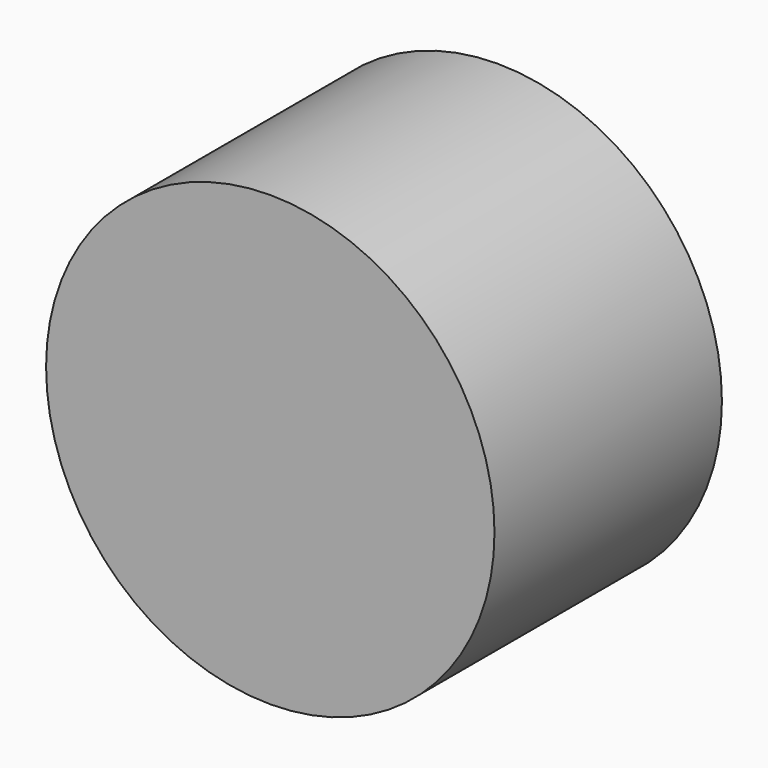
from build123d import *

# Parameters (mm, degrees)
F0_W     = 46.8510227791
F0_H     = 10.859509725
F1_DEPTH = 68.326
F2_DEPTH = 25.4
F4_R     = 635
F5_DEPTH = 805.18


with BuildPart() as f1:
    # F0 (on Front) → F1 (new body)
    with BuildSketch(Plane.XZ):
        with BuildLine():
            Line((0, 19.9349565315), (0, 0))
            Line((0, 0), (35.5261108433, 0))
            Line((35.5261108433, 0), (35.5261108433, 2.7486670447))
            ThreePointArc((35.5261108433, 2.7486670447), (31.9945535762, 7.7510571327), (35.5261108433, 12.7534472207))
            Line((35.5261108433, 12.7534472207), (35.5261108433, 13.7660977894))
            ThreePointArc((35.5261108433, 13.7660977894), (34.1369679811, 16.9197345446), (32.468561842, 19.9349565315))
            Line((32.468561842, 19.9349565315), (0, 19.9349565315))
        make_face()
        with Locations((-6.2054333332, -14.9706080555)):
            Rectangle(F0_W, F0_H)
        Polygon((35.5261108433, 0), (0, 0), (0, 19.9349565315), (-29.6309447227, -9.540853193), (17.2200780563, -9.540853193), align=None)
    extrude(amount=F1_DEPTH)

    # F0 (on Front) → F2 (join)
    with BuildSketch(Plane.XZ):
        with BuildLine():
            Line((0, 19.9349565315), (0, 0))
            Line((0, 0), (35.5261108433, 0))
            Line((35.5261108433, 0), (35.5261108433, 2.7486670447))
            ThreePointArc((35.5261108433, 2.7486670447), (31.9945535762, 7.7510571327), (35.5261108433, 12.7534472207))
            Line((35.5261108433, 12.7534472207), (35.5261108433, 13.7660977894))
            ThreePointArc((35.5261108433, 13.7660977894), (34.1369679811, 16.9197345446), (32.468561842, 19.9349565315))
            Line((32.468561842, 19.9349565315), (0, 19.9349565315))
        make_face()
        with BuildLine():
            Line((35.5261108433, 2.7486670447), (35.5261108433, 0))
            Line((35.5261108433, 0), (17.2200780563, -9.540853193))
            Line((17.2200780563, -9.540853193), (17.2200780563, -20.400362918))
            Line((17.2200780563, -20.400362918), (-29.6309447227, -20.400362918))
            Line((-29.6309447227, -20.400362918), (-29.6309447227, -9.540853193))
            Line((-29.6309447227, -9.540853193), (0, 19.9349565315))
            Line((0, 19.9349565315), (32.468561842, 19.9349565315))
            ThreePointArc((32.468561842, 19.9349565315), (-36.6651210702, -10.3575526506), (38.1, 0))
            ThreePointArc((38.1, 0), (38.0796183926, 1.2460590178), (38.0184953766, 2.4907848763))
            ThreePointArc((38.0184953766, 2.4907848763), (36.7568701316, 2.4705690147), (35.5261108433, 2.7486670447))
        make_face()
        with BuildLine():
            Line((35.5261108433, 12.7534472207), (35.5261108433, 2.7486670447))
            ThreePointArc((35.5261108433, 2.7486670447), (36.7568701316, 2.4705690147), (38.0184953766, 2.4907848763))
            ThreePointArc((38.0184953766, 2.4907848763), (37.3032319421, 7.7510571327), (35.8637504709, 12.8608476456))
            ThreePointArc((35.8637504709, 12.8608476456), (35.6940343979, 12.8099650441), (35.5261108433, 12.7534472207))
        make_face()
        with BuildLine():
            Line((35.5261108433, 19.9349565315), (32.468561842, 19.9349565315))
            ThreePointArc((32.468561842, 19.9349565315), (34.1369679811, 16.9197345446), (35.5261108433, 13.7660977894))
            Line((35.5261108433, 13.7660977894), (35.5261108433, 19.9349565315))
        make_face()
        with BuildLine():
            Line((35.5261108433, 13.7660977894), (35.5261108433, 12.7534472207))
            ThreePointArc((35.5261108433, 12.7534472207), (35.6940343979, 12.8099650441), (35.8637504709, 12.8608476456))
            ThreePointArc((35.8637504709, 12.8608476456), (35.6978002694, 13.3145430237), (35.5261108433, 13.7660977894))
        make_face()
        with BuildLine():
            ThreePointArc((35.8637504709, 12.8608476456), (37.3032319421, 7.7510571327), (38.0184953766, 2.4907848763))
            ThreePointArc((38.0184953766, 2.4907848763), (41.3019298247, 4.2592837672), (42.611910308, 7.7510571327))
            ThreePointArc((42.611910308, 7.7510571327), (40.5079411214, 11.9833029984), (35.8637504709, 12.8608476456))
        make_face()
    extrude(amount=F2_DEPTH)


with BuildPart() as f5:
    # F4 (on Front) → F5 (new body)
    with BuildSketch(Plane.XZ):
        Circle(F4_R)
    extrude(amount=F5_DEPTH)


solid = f5.part
